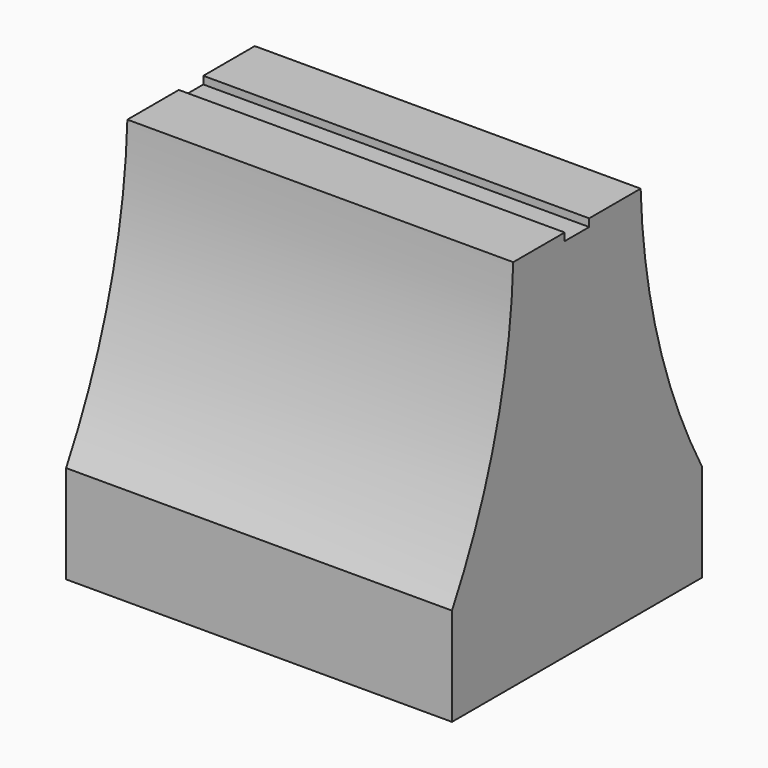
from build123d import *

# Parameters (mm, degrees)
PAD_DEPTH     = 6.3
THICKNESS_T   = -0.8
SKETCH001_W   = 2.8
SKETCH001_H   = 5.6
SKETCH001_W_2 = 1.2
SKETCH001_H_2 = 4
PAD001_DEPTH  = 9


with BuildPart() as part:
    # Sketch → Pad (new body, symmetric)
    with BuildSketch(Plane.YZ):
        with BuildLine():
            Line((-5.1, 0), (-5.1, 3.2))
            ThreePointArc((-5.1, 3.2), (-3.317216, 7.552005), (-2.6, 12.2))
            Line((-2.6, 12.2), (-0.5, 12.2))
            Line((-0.5, 12.2), (-0.5, 11.95))
            Line((-0.5, 11.95), (0.5, 11.95))
            Line((0.5, 11.95), (0.5, 12.2))
            Line((0.5, 12.2), (2.6, 12.2))
            ThreePointArc((2.6, 12.2), (3.317216, 7.552005), (5.1, 3.2))
            Line((5.1, 0), (5.1, 3.2))
            Line((-5.1, 0), (5.1, 0))
        make_face()
    extrude(amount=PAD_DEPTH, both=True)

    # Thickness
    thickness_openings = [part.faces().sort_by_distance(p)[0] for p in [
        (0, 0, 0),
    ]]
    offset(amount=THICKNESS_T, openings=thickness_openings)

    # Sketch001 → Pad001 (join)
    with BuildSketch(Plane.XY.offset(9)):
        Rectangle(SKETCH001_W, SKETCH001_H)
        Rectangle(SKETCH001_W_2, SKETCH001_H_2, mode=Mode.SUBTRACT)
    extrude(amount=-PAD001_DEPTH)


solid = part.part
